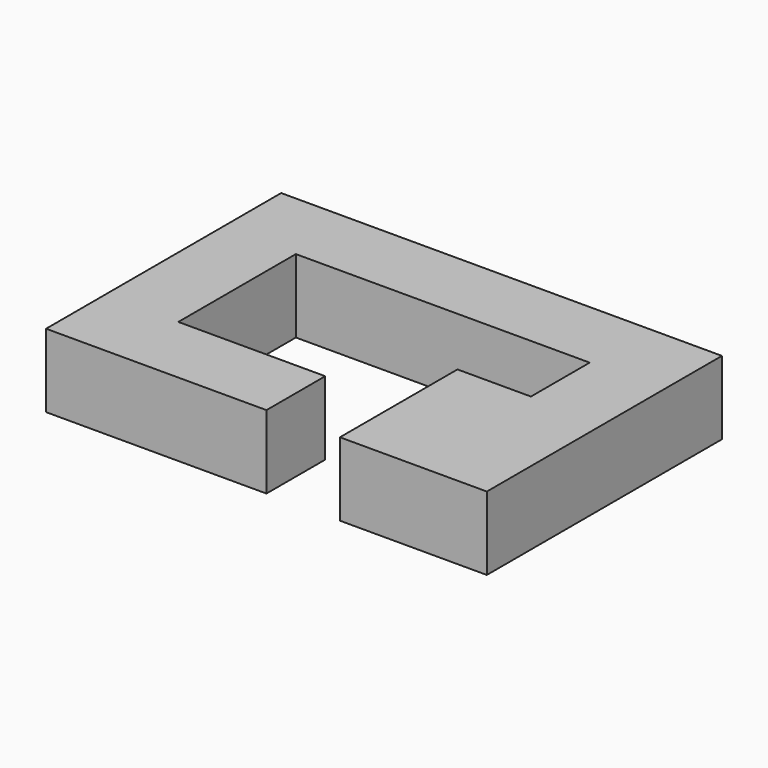
from build123d import *

# Parameters (mm, degrees)
F0_W     = 10
F0_H     = 10
F1_DEPTH = 10


with BuildPart() as f1:
    # F0 (on Top) → F1 (new body)
    with BuildSketch(Plane.XY):
        Polygon((30, 20), (-30, 20), (-30, -20), (0, -20), (0, -10), (-20, -10), (-20, 10), (20, 10), (20, 0), (20, -10), (10, -10), (10, -20), (30, -20), align=None)
        with Locations((15, -5)):
            Rectangle(F0_W, F0_H)
    extrude(amount=F1_DEPTH)


solid = f1.part
